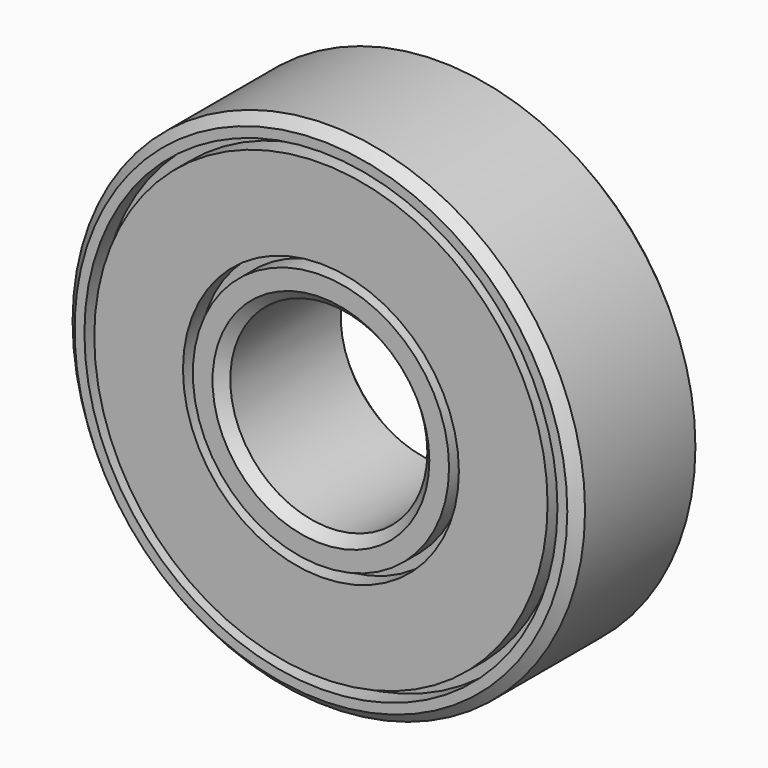
from build123d import *

# Parameters (mm, degrees)
F0_R     = 13
F0_R_2   = 5
F1_DEPTH = 8
F2_R     = 12
F2_R_2   = 11.5
F2_R_3   = 7
F2_R_4   = 6.5
F3_DEPTH = 1
F4_R     = 12
F4_R_2   = 11.5
F4_R_3   = 7
F4_R_4   = 6.5
F5_DEPTH = 1
F6_SIZE  = 0.5


with BuildPart() as f1:
    # F0 (on Front) → F1 (new body)
    with BuildSketch(Plane.XZ):
        Circle(F0_R)
        Circle(F0_R_2, mode=Mode.SUBTRACT)
    extrude(amount=F1_DEPTH)

    # F2 (on face) → F3 (cut)
    with BuildSketch(Plane.XZ.offset(8)):
        Circle(F2_R)
        Circle(F2_R_2, mode=Mode.SUBTRACT)
        Circle(F2_R_3)
        Circle(F2_R_4, mode=Mode.SUBTRACT)
    extrude(amount=-F3_DEPTH, mode=Mode.SUBTRACT)

    # F4 (on face) → F5 (cut)
    with BuildSketch(Plane(origin=(0, 0, 0), x_dir=(-1, 0, 0), z_dir=(0, 1, 0))):
        Circle(F4_R)
        Circle(F4_R_2, mode=Mode.SUBTRACT)
        Circle(F4_R_3)
        Circle(F4_R_4, mode=Mode.SUBTRACT)
    extrude(amount=-F5_DEPTH, mode=Mode.SUBTRACT)

    # F6
    f6_edges = [f1.edges().sort_by_distance(p)[0] for p in [
        (-13, 0, 0),
        (-5, 0, 0),
        (-5, -8, 0),
        (-13, -8, 0),
    ]]
    chamfer(f6_edges, length=F6_SIZE)


solid = f1.part
